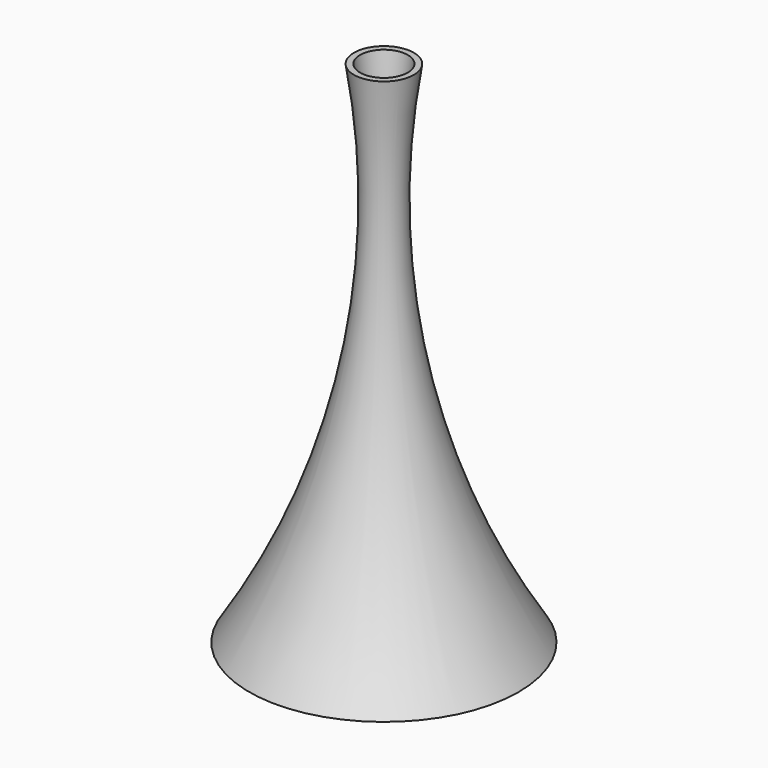
from build123d import *

# Parameters (mm, degrees)
F2_T = -2.54


with BuildPart() as f1:
    # F0 (on Front) → F1 (revolve)
    with BuildSketch(Plane.XZ):
        with BuildLine():
            Line((-12.2674711376, 94.7219225585), (-24.9674711376, 94.7219225585))
            Line((-24.9674711376, 94.7219225585), (-24.9674711376, -121.1780774415))
            Line((-24.9674711376, -121.1780774415), (32.1825288624, -121.1780774415))
            ThreePointArc((32.1825288624, -121.1780774415), (-10.2455310514, -17.3875309531), (-12.2674711376, 94.7219225585))
        make_face()
    revolve(axis=Axis((-24.9674711376, 0, -13.2280774415), (0, 0, -1)))

    # F2
    f2_openings = [f1.faces().sort_by_distance(p)[0] for p in [
        (-24.967471, 0, -121.178077),
        (-24.967471, 0, 94.721923),
    ]]
    offset(amount=F2_T, openings=f2_openings)


solid = f1.part
